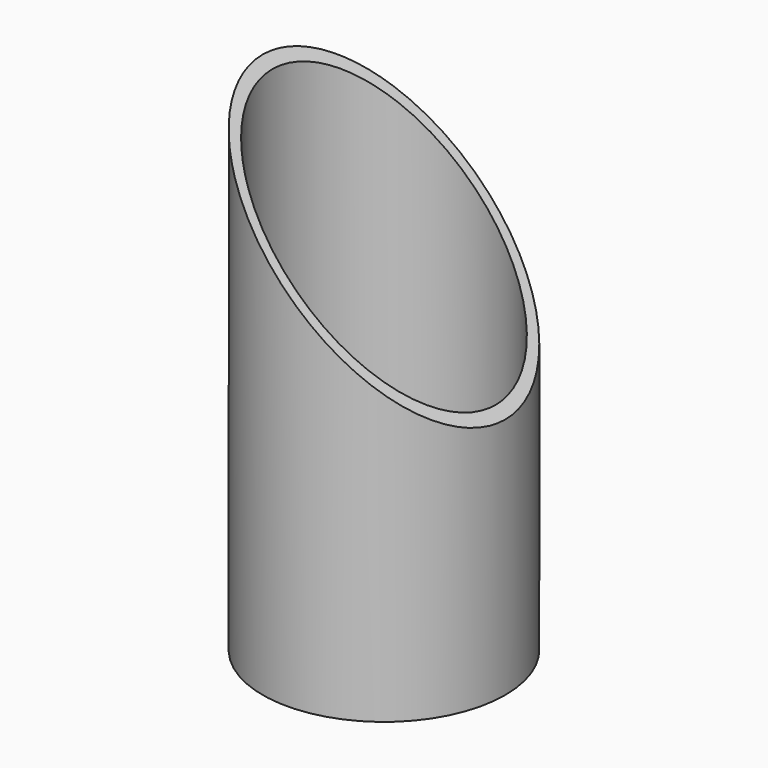
from build123d import *

# Parameters (mm, degrees)
F0_R          = 25
F0_R_2        = 23
F1_DEPTH      = 100
F3_DEPTH      = 25.001
F3_DEPTH_BACK = 25.001


with BuildPart() as f1:
    # F0 (on Top) → F1 (new body)
    with BuildSketch(Plane.XY):
        Circle(F0_R)
        Circle(F0_R_2, mode=Mode.SUBTRACT)
    extrude(amount=F1_DEPTH)

    # F2 (on Front) → F3 (cut, two sides)
    with BuildSketch(Plane.XZ) as f3_sk:
        Polygon((25, 100), (-25, 100), (25, 50), align=None)
    extrude(amount=F3_DEPTH, mode=Mode.SUBTRACT)
    extrude(f3_sk.sketch, amount=-F3_DEPTH_BACK, mode=Mode.SUBTRACT)


solid = f1.part
